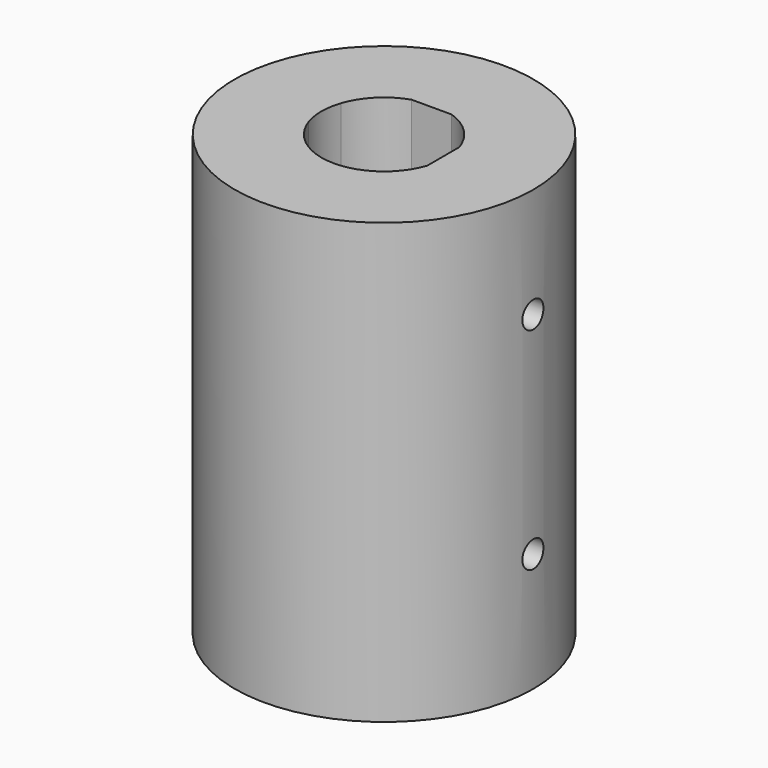
from build123d import *

# Parameters (mm, degrees)
F0_R      = 17
F0_R_2    = 6.25
F1_DEPTH  = 50
F3_DEPTH  = 25
F4_DEPTH  = 25
F5_R      = 1.5
F6_DEPTH  = 25
F7_R      = 1.5
F8_DEPTH  = 25
F9_R      = 1.5
F10_DEPTH = 50


with BuildPart() as f1:
    # F0 (on Top) → F1 (new body)
    with BuildSketch(Plane.XY):
        Circle(F0_R)
        Circle(F0_R_2, mode=Mode.SUBTRACT)
        Circle(F0_R_2)
    extrude(amount=F1_DEPTH)

    # F0 (on Top) → F3 (cut)
    with BuildSketch(Plane.XY):
        Circle(F0_R_2)
    extrude(amount=F3_DEPTH, mode=Mode.SUBTRACT)

    # F2 (on face) → F4 (cut)
    with BuildSketch(Plane.XY.offset(50)):
        with BuildLine():
            Line((6.75, -2.2810359489), (6.75, 2.2810359489))
            ThreePointArc((6.75, 2.2810359489), (5.038135816, 5.038135816), (2.2810359489, 6.75))
            Line((2.2810359489, 6.75), (-2.2810359489, 6.75))
            ThreePointArc((-2.2810359489, 6.75), (-5.038135816, 5.038135816), (-6.75, 2.2810359489))
            Line((-6.75, 2.2810359489), (-6.75, -2.2810359489))
            ThreePointArc((-6.75, -2.2810359489), (-5.038135816, -5.038135816), (-2.2810359489, -6.75))
            Line((-2.2810359489, -6.75), (2.2810359489, -6.75))
            ThreePointArc((2.2810359489, -6.75), (5.038135816, -5.038135816), (6.75, -2.2810359489))
        make_face()
        with BuildLine():
            Line((-6.75, -2.2810359489), (-6.75, 2.2810359489))
            ThreePointArc((-6.75, 2.2810359489), (-7.125, 0), (-6.75, -2.2810359489))
        make_face()
        with BuildLine():
            ThreePointArc((-2.2810359489, -6.75), (0, -7.125), (2.2810359489, -6.75))
            Line((2.2810359489, -6.75), (-2.2810359489, -6.75))
        make_face()
    extrude(amount=-F4_DEPTH, mode=Mode.SUBTRACT)

    # F5 (on face) → F6 (cut)
    with BuildSketch(Plane(origin=(6.75, 0, 0), x_dir=(0, -1, 0), z_dir=(-1, 0, 0))):
        with Locations((0, 37.5)):
            Circle(F5_R)
    extrude(amount=-F6_DEPTH, mode=Mode.SUBTRACT)

    # F7 (on face) → F8 (cut)
    with BuildSketch(Plane.XZ.offset(-6.75)):
        with Locations((0, 37.5)):
            Circle(F7_R)
    extrude(amount=-F8_DEPTH, mode=Mode.SUBTRACT)

    # F9 (on Right) → F10 (cut, symmetric)
    with BuildSketch(Plane.YZ):
        with Locations((0, 13.5)):
            Circle(F9_R)
    extrude(amount=F10_DEPTH, both=True, mode=Mode.SUBTRACT)


solid = f1.part
